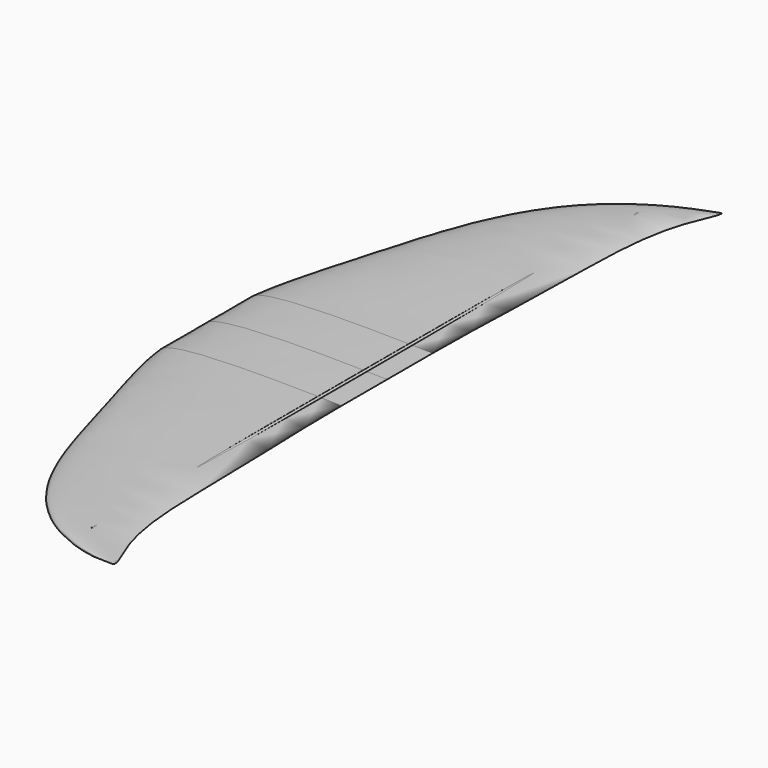
from build123d import *

# Parameters (mm, degrees)
SKETCH063_W                    = 19.558
SKETCH063_H                    = 19.05
PAD042_DEPTH                   = 609.6
CYLINDER053_R                  = 3.429
CYLINDER053_DEPTH              = 660.4
SKETCH059_W                    = 13.716
SKETCH059_H                    = 13.716
PAD038_DEPTH                   = 584.2
SKETCH058_W                    = 13.716
SKETCH058_H                    = 13.716
PAD037_DEPTH                   = 457.2
SKETCH057_W                    = 13.716
SKETCH057_H                    = 13.716
PAD036_DEPTH                   = 381
SKETCH056_W                    = 13.716
SKETCH056_H                    = 13.716
PAD035_DEPTH                   = 203.2
CYLINDER054_R                  = 3.429
CYLINDER054_DEPTH              = 711.2
PART_MIRRORING_PLACEMENT_ANGLE = 180
FUSION014_PLACEMENT_ANGLE      = 179
SKETCH023_W                    = 12.7
SKETCH023_H                    = 12.7
SKETCH023_W_2                  = 9.4996
SKETCH023_H_2                  = 9.4996
PAD009_DEPTH                   = 381
SKETCH025_W                    = 12.7
SKETCH025_H                    = 12.7
SKETCH025_W_2                  = 9.4996
SKETCH025_H_2                  = 9.4996
PAD011_DEPTH                   = 457.2
SKETCH027_W                    = 12.7
SKETCH027_H                    = 12.7
SKETCH027_W_2                  = 9.4996
SKETCH027_H_2                  = 9.4996
PAD013_DEPTH                   = 584.2
CYLINDER002_R                  = 3.175
CYLINDER002_DEPTH              = 660.4
CYLINDER008_R                  = 3.175
CYLINDER008_DEPTH              = 762
SKETCH022_W                    = 12.7
SKETCH022_H                    = 12.7
SKETCH022_W_2                  = 9.4996
SKETCH022_H_2                  = 9.4996
PAD008_DEPTH                   = 152.4


with BuildPart() as fuselage001:
    # Sketch063 → Pad042 (new body)
    with BuildSketch(Plane.YZ):
        with Locations((3.429, -3.175)):
            Rectangle(SKETCH063_W, SKETCH063_H)
    extrude(amount=PAD042_DEPTH)


with BuildPart() as fuselage001_1:
    # Body054 placement: moved
    add(fuselage001.part.moved(Location((-418.9984, -3.429, 927.1))))


with BuildPart() as cylinder053:
    # Cylinder053 → Cylinder053 (new body)
    with BuildSketch(Plane(origin=(-318.77, -330.2, 937.3616), x_dir=(1, 0, 0), z_dir=(0, 1, 0))):
        Circle(CYLINDER053_R)
    extrude(amount=CYLINDER053_DEPTH)


with BuildPart() as body050:
    # Sketch059 → Pad038 (new body)
    with BuildSketch(Plane.XZ):
        with Locations((6.858, -6.858)):
            Rectangle(SKETCH059_W, SKETCH059_H)
    extrude(amount=PAD038_DEPTH)


with BuildPart() as body050_1:
    # Body050 placement: moved
    add(body050.part.moved(Location((-348.3864, 292.1, 940.816))))


with BuildPart() as body049:
    # Sketch058 → Pad037 (new body)
    with BuildSketch(Plane.XZ):
        with Locations((6.858, -6.858)):
            Rectangle(SKETCH058_W, SKETCH058_H)
    extrude(amount=PAD037_DEPTH)


with BuildPart() as body049_1:
    # Body049 placement: moved
    add(body049.part.moved(Location((-368.1984, 228.6, 940.816))))


with BuildPart() as body048:
    # Sketch057 → Pad036 (new body)
    with BuildSketch(Plane.XZ):
        with Locations((6.858, -6.858)):
            Rectangle(SKETCH057_W, SKETCH057_H)
    extrude(amount=PAD036_DEPTH)


with BuildPart() as body048_1:
    # Body048 placement: moved
    add(body048.part.moved(Location((-387.5024, 190.5, 940.816))))


with BuildPart() as body047:
    # Sketch056 → Pad035 (new body)
    with BuildSketch(Plane.XZ):
        with Locations((6.858, -6.858)):
            Rectangle(SKETCH056_W, SKETCH056_H)
    extrude(amount=PAD035_DEPTH)


with BuildPart() as body047_1:
    # Body047 placement: moved
    add(body047.part.moved(Location((-407.3144, 101.6, 940.816))))


with BuildPart() as obj1:
    # Cylinder054 → Cylinder054 (new body)
    with BuildSketch(Plane(origin=(-298.831, -355.6, 937.3489), x_dir=(1, 0, 0), z_dir=(0, 1, 0))):
        Circle(CYLINDER054_R)
    extrude(amount=CYLINDER054_DEPTH)

    # Fusion012: union Cylinder053, Body050, Body049, Body048, Body047
    add(cylinder053.part)
    add(body050_1.part)
    add(body049_1.part)
    add(body048_1.part)
    add(body047_1.part)


with BuildPart() as obj1_1:
    # Fusion012 placement: moved
    add(obj1.part.moved(Location((0, 0, 6.35))))


with BuildPart() as additiveloft001:
    # Sketch007 → AdditiveLoft section 0
    with BuildSketch(Plane(origin=(-95.25, 284.48, 0), x_dir=(0.990099, 0.099504, 0.09901), z_dir=(0.09901, -0.995037, 0.009901))):
        with BuildLine():
            add(Edge.make_bspline(
                [(-0.642491, 0.016306), (0.942151, 0.395123), (1.968355, 0.0803), (1.082123, -0.056559), (-0.642491, 0.016306)],
                knots=[0, 0, 0, 0, 0.5, 1, 1, 1, 1], degree=3))
        make_face()
    # Sketch008 → AdditiveLoft section 1
    with BuildSketch(Plane(origin=(-88.9, 279.4, 0), x_dir=(0.996413, 0.059892, 0.059785), z_dir=(0.059785, -0.998205, 0.003587))):
        with BuildLine():
            add(Edge.make_bspline(
                [(-6.424909, 0.163064), (9.421511, 3.951227), (19.683554, 0.802995), (10.821227, -0.565587), (-6.424909, 0.163064)],
                knots=[0, 0, 0, 0, 0.5, 1, 1, 1, 1], degree=3))
        make_face()
    # Sketch009 → AdditiveLoft section 2
    with BuildSketch(Plane(origin=(-63.5, 254, 0), x_dir=(0.998403, 0.039968, 0.039936), z_dir=(0.039936, -0.999201, 0.001597))):
        with BuildLine():
            add(Edge.make_bspline(
                [(-21.416362, 0.543546), (31.405036, 13.170757), (65.611848, 2.67665), (36.070756, -1.885291), (-21.416362, 0.543546)],
                knots=[0, 0, 0, 0, 0.5, 1, 1, 1, 1], degree=3))
        make_face()
    # Sketch010 → AdditiveLoft section 3
    with BuildSketch(Plane(origin=(-25.4, 152.4, 0), x_dir=(0.9996, 0.019996, 0.019992), z_dir=(0.019992, -0.9998, 0.0004))):
        with BuildLine():
            add(Edge.make_bspline(
                [(-42.832724, 1.087092), (62.810073, 26.341514), (131.223696, 5.3533), (72.141512, -3.770583), (-42.832724, 1.087092)],
                knots=[0, 0, 0, 0, 0.5, 1, 1, 1, 1], degree=3))
        make_face()
    # Sketch012 → AdditiveLoft section 4
    with BuildSketch(Plane(origin=(-12.7, 50.8, 0), x_dir=(1, 0, 0), z_dir=(0, 1, 0))):
        with BuildLine():
            add(Edge.make_bspline(
                [(-52.011165, -1.32004), (76.269374, -31.986124), (159.34306, -6.500436), (87.600408, 4.578565), (-52.011165, -1.32004)],
                knots=[0, 0, 0, 0, 0.5, 1, 1, 1, 1], degree=3))
        make_face()
    # Sketch013 → AdditiveLoft section 5
    with BuildSketch(Plane(origin=(-3.81, -25.4, 0), x_dir=(1, 0, 0), z_dir=(0, 1, 0))):
        with BuildLine():
            add(Edge.make_bspline(
                [(-58.130126, -1.475339), (85.242241, -35.749197), (178.089302, -7.265193), (97.906338, 5.11722), (-58.130126, -1.475339)],
                knots=[0, 0, 0, 0, 0.5, 1, 1, 1, 1], degree=3))
        make_face()
    # Sketch011 → AdditiveLoft section 6
    with BuildSketch(Plane.XZ.offset(76.2)):
        with BuildLine():
            add(Edge.make_bspline(
                [(-61.189606, 1.552988), (89.728675, 37.630734), (187.462423, 7.647572), (103.059303, -5.386547), (-61.189606, 1.552988)],
                knots=[0, 0, 0, 0, 0.5, 1, 1, 1, 1], degree=3))
        make_face()
    loft()

    # Sketch011 → AdditiveLoft001 section 0
    with BuildSketch(Plane.XZ.offset(76.2)):
        with BuildLine():
            add(Edge.make_bspline(
                [(-61.189606, 1.552988), (89.728675, 37.630734), (187.462423, 7.647572), (103.059303, -5.386547), (-61.189606, 1.552988)],
                knots=[0, 0, 0, 0, 0.5, 1, 1, 1, 1], degree=3))
        make_face()
    # Sketch014 → AdditiveLoft001 section 1
    with BuildSketch(Plane(origin=(0, -139.7, 0), x_dir=(1, 0, 0), z_dir=(0, 1, 0))):
        with BuildLine():
            add(Edge.make_bspline(
                [(-61.189606, -1.552988), (89.728675, -37.630734), (187.462423, -7.647572), (103.059303, 5.386547), (-61.189606, -1.552988)],
                knots=[0, 0, 0, 0, 0.5, 1, 1, 1, 1], degree=3))
        make_face()
    loft()


with BuildPart() as part_mirroring:
    # Part__Mirroring: instance of AdditiveLoft001
    add(additiveloft001.part.mirror(Plane(origin=(0, 0, 0), x_dir=(0, 1, 0), z_dir=(0, 0, 1))))


with BuildPart() as part_mirroring_1:
    # Part__Mirroring placement: moved
    add(part_mirroring.part.moved(Location((0, -279.4, 0))).rotate(Axis((0, -279.4, 0), (1, 0, 0)), PART_MIRRORING_PLACEMENT_ANGLE))


with BuildPart() as hollow_wing:
    # AdditiveLoft006 base: copy of AdditiveLoft001
    add(additiveloft001.part)

    # Sketch074 → AdditiveLoft006 section 0
    with BuildSketch(Plane.XZ.offset(76.2)):
        with BuildLine():
            add(Edge.make_bspline(
                [(-61.189606, 1.552988), (89.728675, 37.630734), (187.462423, 7.647572), (103.059303, -5.386547), (-61.189606, 1.552988)],
                knots=[0, 0, 0, 0, 0.5, 1, 1, 1, 1], degree=3))
        make_face()
    # Sketch075 → AdditiveLoft006 section 1
    with BuildSketch(Plane(origin=(0, -139.7, 0), x_dir=(1, 0, 0), z_dir=(0, 1, 0))):
        with BuildLine():
            add(Edge.make_bspline(
                [(-61.189606, -1.552988), (89.728675, -37.630734), (187.462423, -7.647572), (103.059303, 5.386547), (-61.189606, -1.552988)],
                knots=[0, 0, 0, 0, 0.5, 1, 1, 1, 1], degree=3))
        make_face()
    loft()

    # Fusion014: union Part__Mirroring
    add(part_mirroring_1.part)


with BuildPart() as hollow_wing_1:
    # Fusion014 placement: moved
    add(hollow_wing.part.moved(Location((-303.870691, 139.892, 950.921469))).rotate(Axis((-303.870691, 139.892, 950.921469), (0, 1, 0)), FUSION014_PLACEMENT_ANGLE))

    # Cut026: cut obj1
    add(obj1_1.part, mode=Mode.SUBTRACT)

    # Cut027: cut Fuselage001
    add(fuselage001_1.part, mode=Mode.SUBTRACT)


with BuildPart() as body017:
    # Sketch023 → Pad009 (new body)
    with BuildSketch(Plane.XZ):
        with Locations((6.35, -6.35)):
            Rectangle(SKETCH023_W, SKETCH023_H)
        with Locations((6.35, -6.35)):
            Rectangle(SKETCH023_W_2, SKETCH023_H_2, mode=Mode.SUBTRACT)
    extrude(amount=PAD009_DEPTH)


with BuildPart() as body017_1:
    # Body016 placement: moved
    add(body017.part.moved(Location((-393.5984, 190.5, 939.8))))


with BuildPart() as body019:
    # Sketch025 → Pad011 (new body)
    with BuildSketch(Plane.XZ):
        with Locations((6.35, -6.35)):
            Rectangle(SKETCH025_W, SKETCH025_H)
        with Locations((6.35, -6.35)):
            Rectangle(SKETCH025_W_2, SKETCH025_H_2, mode=Mode.SUBTRACT)
    extrude(amount=PAD011_DEPTH)


with BuildPart() as body019_1:
    # Body018 placement: moved
    add(body019.part.moved(Location((-368.1984, 228.6, 939.8))))


with BuildPart() as body021:
    # Sketch027 → Pad013 (new body)
    with BuildSketch(Plane.XZ):
        with Locations((6.35, -6.35)):
            Rectangle(SKETCH027_W, SKETCH027_H)
        with Locations((6.35, -6.35)):
            Rectangle(SKETCH027_W_2, SKETCH027_H_2, mode=Mode.SUBTRACT)
    extrude(amount=PAD013_DEPTH)


with BuildPart() as body021_1:
    # Body020 placement: moved
    add(body021.part.moved(Location((-347.8784, 292.1, 939.8))))


with BuildPart() as cylinder002:
    # Cylinder002 → Cylinder002 (new body)
    with BuildSketch(Plane(origin=(-295.91, -330.2, 937.768), x_dir=(1, 0, 0), z_dir=(0, 1, 0))):
        Circle(CYLINDER002_R)
    extrude(amount=CYLINDER002_DEPTH)


with BuildPart() as cylinder008:
    # Cylinder008 → Cylinder008 (new body)
    with BuildSketch(Plane(origin=(-267.208, -381, 942.086), x_dir=(1, 0, 0), z_dir=(0, 1, 0))):
        Circle(CYLINDER008_R)
    extrude(amount=CYLINDER008_DEPTH)


with BuildPart() as final_front_wing:
    # Sketch022 → Pad008 (new body)
    with BuildSketch(Plane.XZ):
        with Locations((6.35, -6.35)):
            Rectangle(SKETCH022_W, SKETCH022_H)
        with Locations((6.35, -6.35)):
            Rectangle(SKETCH022_W_2, SKETCH022_H_2, mode=Mode.SUBTRACT)
    extrude(amount=PAD008_DEPTH)


with BuildPart() as final_front_wing_1:
    # Body015 placement: moved
    add(final_front_wing.part.moved(Location((-413.9184, 76.2, 939.8))))

    # Fusion011: union Body017, Body019, Body021, Cylinder002, Cylinder008
    add(body017_1.part)
    add(body019_1.part)
    add(body021_1.part)
    add(cylinder002.part)
    add(cylinder008.part)


with BuildPart() as final_front_wing_2:
    # Fusion011 placement: moved
    add(final_front_wing_1.part.moved(Location((0, 0, 6.35))))

    # Fusion015: union Hollow Wing
    add(hollow_wing_1.part)


solid = final_front_wing_2.part
